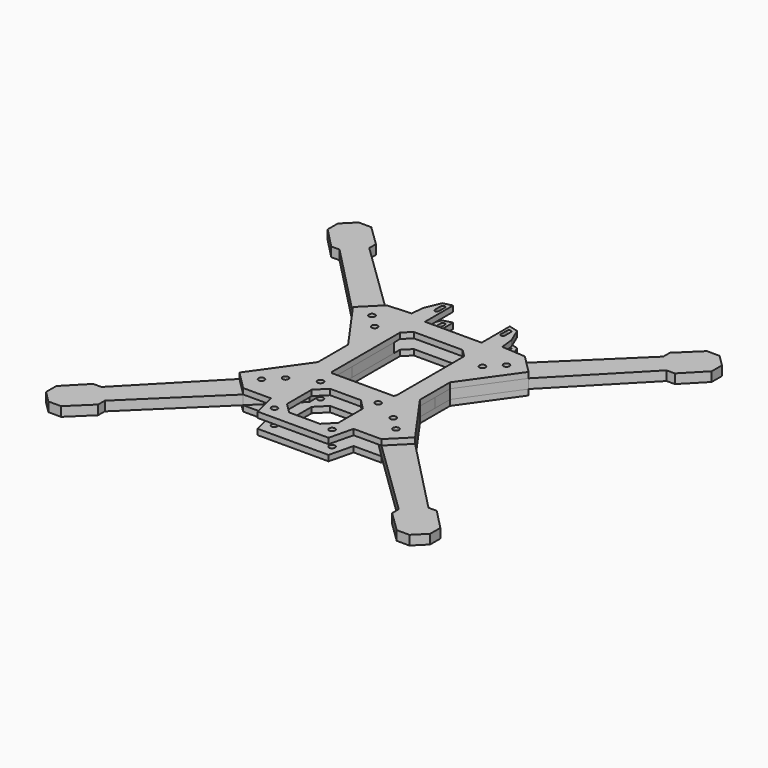
from build123d import *

# Parameters (mm, degrees)
F2_R     = 1.575
F4_DEPTH = 3
F3_R     = 1.575
F5_DEPTH = 5


with BuildPart() as f4:
    # F2 (on Top) → F4 (new body)
    with BuildSketch(Plane.XY):
        Polygon((-15, 64.5227059722), (-19.8615770787, 63.2744207978), (-23.2021783692, 55.324610512), (-23.9866074862, 48.2510283729), (-36.6025546779, 47.4622363255), (-46.5020496146, 37.5627413889), (-27, 10), (-27, -10), (-46.5020496146, -37.5627413889), (-36.6025546779, -47.4622363255), (-21.8668499243, -47.4622363255), (-18.7675944421, -60.1765999601), (0, -60.1765999601), (18.7675944421, -60.1765999601), (21.8668499243, -47.4622363255), (36.6025546779, -47.4622363255), (46.5020496146, -37.5627413889), (27, -10), (27, 10), (46.5020496146, 37.5627413889), (36.6025546779, 47.4622363255), (23.9866074862, 48.2510283729), (23.2021783692, 55.324610512), (19.8615770787, 63.2744207978), (15, 64.5227059722), (15, 45.8657460598), (0, 45.8657460598), (-15, 45.8657460598), align=None)
        with Locations((-35.6134044144, -36.5735911254)):
            Circle(F2_R, mode=Mode.SUBTRACT)
        with Locations((-28.5423366026, -29.5025233135)):
            Circle(F2_R, mode=Mode.SUBTRACT)
        with Locations((-15.25, -53.4541481237)):
            Circle(F2_R, mode=Mode.SUBTRACT)
        Polygon((-13.5651640594, -47.2498838894), (-13.5651640594, -39.0851548956), (-13.5651640594, -30.9204259018), (-8.1647289938, -25.5199908362), (0, -25.5199908362), (8.1647289938, -25.5199908362), (13.5651640594, -30.9204259018), (13.5651640594, -39.0851548956), (13.5651640594, -47.2498838894), (8.1647289938, -52.650318955), (0, -52.650318955), (-8.1647289938, -52.650318955), align=None, mode=Mode.SUBTRACT)
        with Locations((-15.25, -22.9541481237)):
            Circle(F2_R, mode=Mode.SUBTRACT)
        with Locations((15.25, -53.4541481237)):
            Circle(F2_R, mode=Mode.SUBTRACT)
        with Locations((28.5423366026, -29.5025233135)):
            Circle(F2_R, mode=Mode.SUBTRACT)
        with Locations((35.6134044144, -36.5735911254)):
            Circle(F2_R, mode=Mode.SUBTRACT)
        with Locations((15.25, -22.9541481237)):
            Circle(F2_R, mode=Mode.SUBTRACT)
        with Locations((-28.5423366026, 29.5025233135)):
            Circle(F2_R, mode=Mode.SUBTRACT)
        Polygon((-17, -13.310133672), (-17, 31.7939347525), (-12.9281886928, 35.8657460598), (0, 35.8657460598), (12.9281886928, 35.8657460598), (17, 31.7939347525), (17, -13.310133672), (16.1758797318, -14.1342539402), (0, -14.1342539402), (-16.1758797318, -14.1342539402), align=None, mode=Mode.SUBTRACT)
        with Locations((-35.6134044144, 36.5735911254)):
            Circle(F2_R, mode=Mode.SUBTRACT)
        with BuildLine():
            Line((-18.55, 56.8657460598), (-18.55, 60.8657460598))
            ThreePointArc((-18.55, 60.8657460598), (-17.5, 61.9157460598), (-16.45, 60.8657460598))
            Line((-16.45, 60.8657460598), (-16.45, 56.8657460598))
            ThreePointArc((-16.45, 56.8657460598), (-17.5, 55.8157460598), (-18.55, 56.8657460598))
        make_face(mode=Mode.SUBTRACT)
        with Locations((28.5423366026, 29.5025233135)):
            Circle(F2_R, mode=Mode.SUBTRACT)
        with BuildLine():
            ThreePointArc((16.45, 60.8657460598), (17.5, 61.9157460598), (18.55, 60.8657460598))
            Line((18.55, 60.8657460598), (18.55, 56.8657460598))
            ThreePointArc((18.55, 56.8657460598), (17.5, 55.8157460598), (16.45, 56.8657460598))
            Line((16.45, 56.8657460598), (16.45, 60.8657460598))
        make_face(mode=Mode.SUBTRACT)
        with Locations((35.6134044144, 36.5735911254)):
            Circle(F2_R, mode=Mode.SUBTRACT)
    extrude(amount=F4_DEPTH)


with BuildPart() as f5:
    # F3 (on face) → F5 (new body)
    with BuildSketch(Plane.XY):
        Polygon((-86.576304932, 78.7906944316), (-46.5020496146, 37.5627413889), (-27, 10), (-27, 0), (-17, 0), (-17, 28.0281789601), (-36.6025546779, 47.4622363255), (-77.8305077207, 87.5364916429), (-77.8305077207, 91.9361645069), (-88.8580436427, 102.6551126342), (-95.6066581443, 102.6551126342), (-101.6949259233, 96.5668448552), (-101.6949259233, 89.8182303536), (-90.975977796, 78.7906944316), align=None)
        with Locations((-28.5423366026, 29.5025233135)):
            Circle(F3_R, mode=Mode.SUBTRACT)
        with Locations((-35.6134044144, 36.5735911254)):
            Circle(F3_R, mode=Mode.SUBTRACT)
    extrude(amount=-F5_DEPTH)


with BuildPart() as f6_1:
    # F6: instance of F5
    add(f5.part.mirror(Plane.YZ))


with BuildPart() as f7_1:
    # F7: instance of F5
    add(f5.part.mirror(Plane.XZ))


with BuildPart() as f7_2:
    # F7: instance of F6_1
    add(f6_1.part.mirror(Plane.XZ))


with BuildPart() as f9_1:
    # F9: instance of F4
    add(f4.part.mirror(Plane(origin=(0, -1.5185900501, -2.5), x_dir=(1, 0, 0), z_dir=(0, 0, -1))))


solid = Compound([f4.part, f5.part, f6_1.part, f7_1.part, f7_2.part, f9_1.part])
